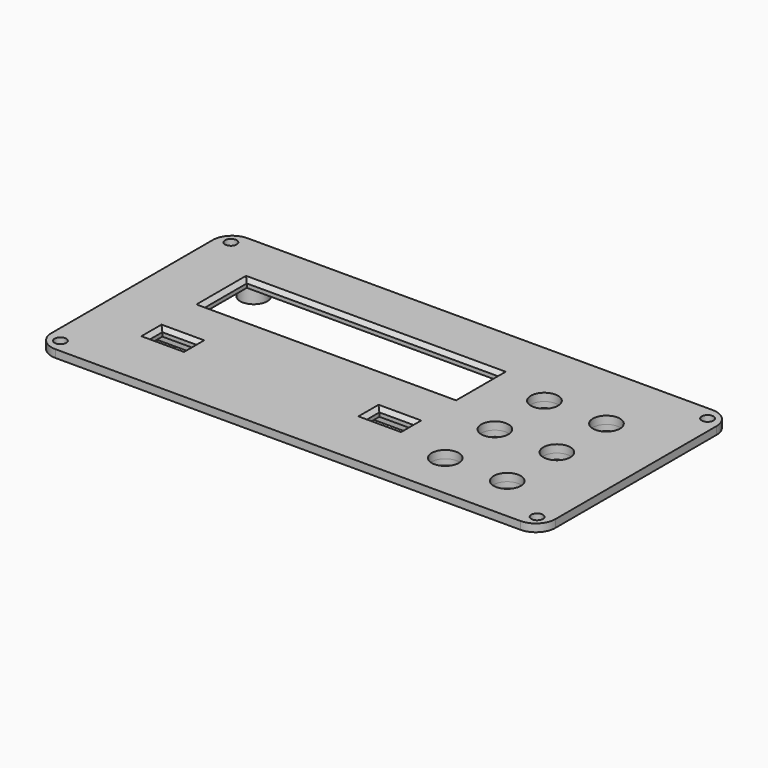
from build123d import *

# Parameters (mm, degrees)
SKETCH005_R           = 1.25
EXTRUDE004_DEPTH      = 8
SKETCH006_R           = 1.5
EXTRUDE005_DEPTH      = 2
EXTRUDE005_DEPTH_BACK = 1
SKETCH001_R           = 3.5
SKETCH001_W           = 65
SKETCH001_H           = 14
SKETCH001_W_2         = 9
SKETCH001_H_2         = 4.5
EXTRUDE003_DEPTH      = 2
SKETCH003_R           = 3.5
EXTRUDE001_DEPTH      = 7
SKETCH004_R           = 4.7625
EXTRUDE002_DEPTH      = 1.5
SKETCH007_W           = 27
SKETCH007_H           = 11
SKETCH007_W_2         = 23
SKETCH007_H_2         = 7
SKETCH007_R           = 0.9
EXTRUDE006_DEPTH      = 2
EXTRUDE_DEPTH         = 2
CHAMFER_SIZE          = 1


with BuildPart() as extrude004:
    # Sketch005 → Extrude004 (new body)
    with BuildSketch(Plane.XY):
        with Locations((-54, 25.5)):
            Circle(SKETCH005_R)
        with Locations((21, 25.5)):
            Circle(SKETCH005_R)
        with Locations((-54, -5.5)):
            Circle(SKETCH005_R)
        with Locations((21, -5.5)):
            Circle(SKETCH005_R)
    extrude(amount=-EXTRUDE004_DEPTH)


with BuildPart() as extrude005:
    # Sketch006 → Extrude005 (new body, two sides)
    with BuildSketch(Plane.XY) as extrude005_sk:
        with Locations((-61.5, 27.5)):
            Circle(SKETCH006_R)
        with Locations((61.5, 27.5)):
            Circle(SKETCH006_R)
        with Locations((-61.5, -27.5)):
            Circle(SKETCH006_R)
        with Locations((61.5, -27.5)):
            Circle(SKETCH006_R)
    extrude(amount=EXTRUDE005_DEPTH)
    extrude(extrude005_sk.sketch, amount=-EXTRUDE005_DEPTH_BACK)


with BuildPart() as fusion001:
    # Sketch001 → Extrude003 (new body, symmetric)
    with BuildSketch(Plane.XY):
        with Locations((31, 13)):
            Circle(SKETCH001_R)
        with Locations((47, 13)):
            Circle(SKETCH001_R)
        with Locations((31, -3)):
            Circle(SKETCH001_R)
        with Locations((47, -3)):
            Circle(SKETCH001_R)
        with Locations((31, -19)):
            Circle(SKETCH001_R)
        with Locations((47, -19)):
            Circle(SKETCH001_R)
        with Locations((-16.5, 10)):
            Rectangle(SKETCH001_W, SKETCH001_H)
        with Locations((-44.5, -12.5)):
            Rectangle(SKETCH001_W_2, SKETCH001_H_2)
        with Locations((11.5, -12.5)):
            Rectangle(SKETCH001_W_2, SKETCH001_H_2)
    extrude(amount=EXTRUDE003_DEPTH, both=True)

    # Fusion001: union Extrude004, Extrude005
    add(extrude004.part)
    add(extrude005.part)


with BuildPart() as extrude001:
    # Sketch003 → Extrude001 (new body)
    with BuildSketch(Plane.XY):
        with Locations((-54, 25.5)):
            Circle(SKETCH003_R)
        with Locations((21, 25.5)):
            Circle(SKETCH003_R)
        with Locations((-54, -5.5)):
            Circle(SKETCH003_R)
        with Locations((21, -5.5)):
            Circle(SKETCH003_R)
    extrude(amount=-EXTRUDE001_DEPTH)


with BuildPart() as extrude002:
    # Sketch004 → Extrude002 (new body)
    with BuildSketch(Plane.XY):
        with Locations((31, 13)):
            Circle(SKETCH004_R)
        with Locations((47, 13)):
            Circle(SKETCH004_R)
        with Locations((31, -3)):
            Circle(SKETCH004_R)
        with Locations((47, -3)):
            Circle(SKETCH004_R)
        with Locations((31, -19)):
            Circle(SKETCH004_R)
        with Locations((47, -19)):
            Circle(SKETCH004_R)
    extrude(amount=-EXTRUDE002_DEPTH)


with BuildPart() as extrude006:
    # Sketch007 → Extrude006 (new body)
    with BuildSketch(Plane.XY):
        with Locations((-44.5, -12.5)):
            Rectangle(SKETCH007_W, SKETCH007_H)
        with Locations((-44.5, -12.5)):
            Rectangle(SKETCH007_W_2, SKETCH007_H_2, mode=Mode.SUBTRACT)
        with Locations((11.5, -12.5)):
            Rectangle(SKETCH007_W, SKETCH007_H)
        with Locations((11.5, -12.5)):
            Rectangle(SKETCH007_W_2, SKETCH007_H_2, mode=Mode.SUBTRACT)
        with Locations((-54, -12.5)):
            Circle(SKETCH007_R)
        with Locations((-35, -12.5)):
            Circle(SKETCH007_R)
        with Locations((2, -12.5)):
            Circle(SKETCH007_R)
        with Locations((21, -12.5)):
            Circle(SKETCH007_R)
    extrude(amount=-EXTRUDE006_DEPTH)


with BuildPart() as chamfer_body:
    # Sketch → Extrude (new body)
    with BuildSketch(Plane.XY):
        with BuildLine():
            ThreePointArc((-60, 31), (-63.535534, 29.535534), (-65, 26))
            Line((-65, -26), (-65, 26))
            ThreePointArc((-65, -26), (-63.535534, -29.535534), (-60, -31))
            Line((60, -31), (-60, -31))
            ThreePointArc((60, -31), (63.535534, -29.535534), (65, -26))
            Line((65, 26), (65, -26))
            ThreePointArc((65, 26), (63.535534, 29.535534), (60, 31))
            Line((-60, 31), (60, 31))
        make_face()
    extrude(amount=EXTRUDE_DEPTH)

    # Fusion: union Extrude001, Extrude002, Extrude006
    add(extrude001.part)
    add(extrude002.part)
    add(extrude006.part)

    # Cut: cut Fusion001
    add(fusion001.part, mode=Mode.SUBTRACT)

    # Chamfer
    chamfer_edges = [chamfer_body.edges().sort_by_distance(p)[0] for p in [
        (-49, -12.5, 2),
        (-44.5, -14.75, 2),
        (-40, -12.5, 2),
        (-44.5, -10.25, 2),
        (7, -12.5, 2),
        (11.5, -14.75, 2),
        (16, -12.5, 2),
        (11.5, -10.25, 2),
        (-49, 10, 2),
        (-16.5, 3, 2),
        (16, 10, 2),
        (-16.5, 17, 2),
    ]]
    chamfer(chamfer_edges, length=CHAMFER_SIZE)


solid = chamfer_body.part
